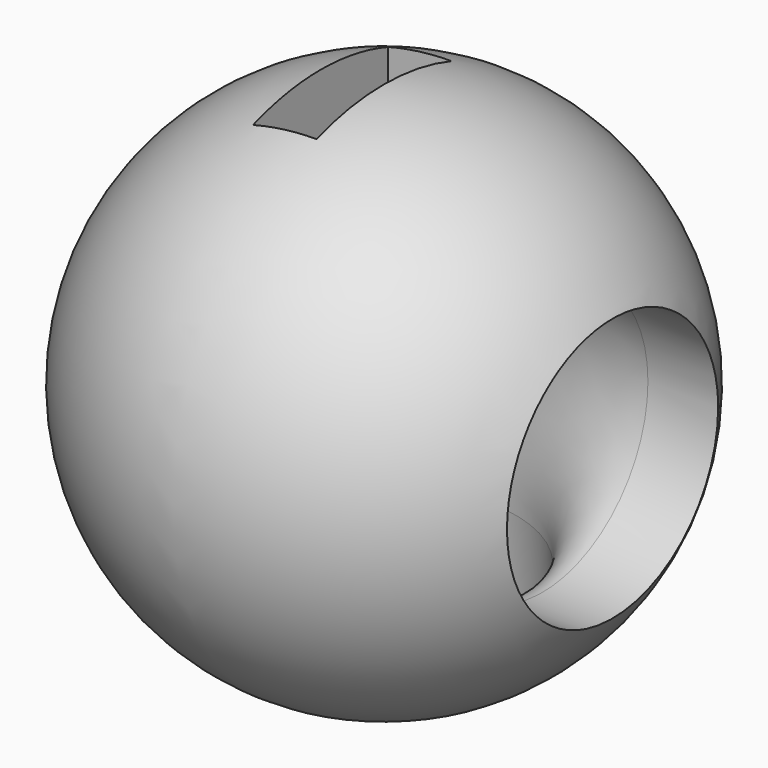
from build123d import *

# Parameters (mm, degrees)
F3_R     = 12.5
F4_W     = 6
F4_H     = 10
F6_DEPTH = 8


with BuildPart() as f1:
    # F0 (on Right) → F1 (revolve)
    with BuildSketch(Plane.YZ):
        with BuildLine():
            Line((0, -25), (0, 25))
            ThreePointArc((0, 25), (-25, 0), (0, -25))
        make_face()
    revolve(axis=Axis((0, 0, 0), (0, 0, -1)))

    # F5: sweep along a path in F4
    with BuildLine(Plane.XZ) as f5_path:
        Line((25, 0), (15, 0))
        ThreePointArc((15, 0), (4.393398, -4.393398), (0, -15))
        Line((0, -15), (0, -25.968151))
    # F3 (on offset) → F5 (sweep, cut)
    with BuildSketch(Plane.YZ.offset(25)):
        Circle(F3_R)
    sweep(path=f5_path.line, mode=Mode.SUBTRACT)

    # F4 (on Front) → F6 (cut, symmetric)
    with BuildSketch(Plane.XZ):
        with Locations((-3, 20)):
            Rectangle(F4_W, F4_H)
    extrude(amount=F6_DEPTH, both=True, mode=Mode.SUBTRACT)


solid = f1.part
